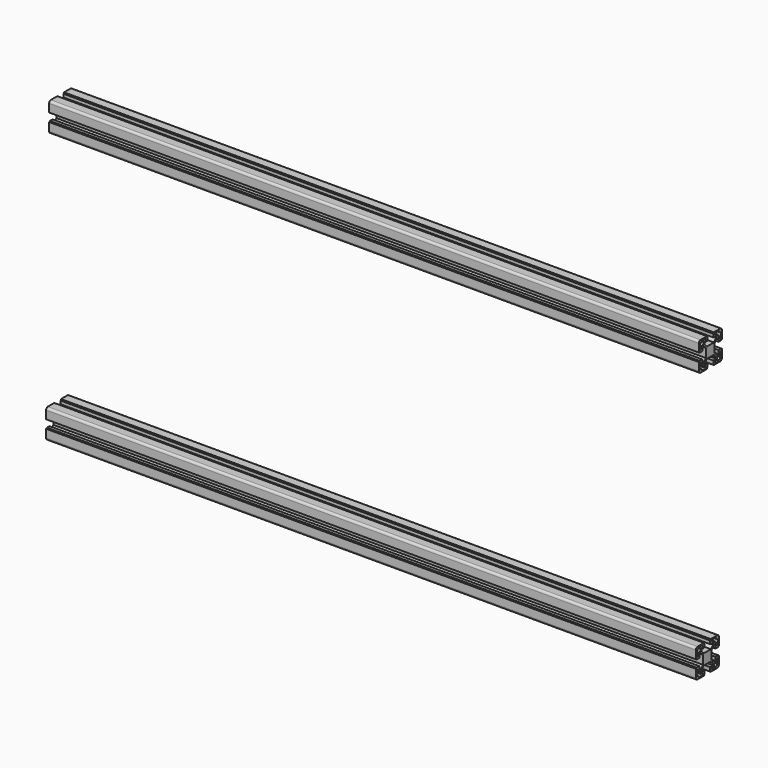
from build123d import *

# Parameters (mm, degrees)
F1_DEPTH = 900


with BuildPart() as f1:
    # F0 (on Right) → F1 (new body)
    with BuildSketch(Plane.YZ):
        with BuildLine():
            Line((5, -18.5), (5.8, -18.5))
            Line((5.8, -18.5), (5.8, -20))
            Line((5.8, -20), (17, -20))
            ThreePointArc((17, -20), (19.12132, -19.12132), (20, -17))
            Line((20, -17), (20, -5.8))
            Line((20, -5.8), (18.5, -5.8))
            Line((18.5, -5.8), (18.5, -5))
            Line((18.5, -5), (14, -5))
            Line((14, -5), (14, -10.05))
            Line((14, -10.05), (11.46421, -10.05))
            Line((11.46421, -10.05), (7.5, -6.08579))
            Line((7.5, -6.08579), (7.5, 6.08579))
            Line((7.5, 6.08579), (11.46421, 10.05))
            Line((11.46421, 10.05), (14, 10.05))
            Line((14, 10.05), (14, 5))
            Line((14, 5), (18.5, 5))
            Line((18.5, 5), (18.5, 5.8))
            Line((18.5, 5.8), (20, 5.8))
            Line((20, 5.8), (20, 17))
            ThreePointArc((20, 17), (19.12132, 19.12132), (17, 20))
            Line((17, 20), (5.8, 20))
            Line((5.8, 20), (5.8, 18.5))
            Line((5.8, 18.5), (5, 18.5))
            Line((5, 18.5), (5, 14))
            Line((5, 14), (10.05, 14))
            Line((10.05, 14), (10.05, 11.46421))
            Line((10.05, 11.46421), (6.08579, 7.5))
            Line((6.08579, 7.5), (-6.08579, 7.5))
            Line((-6.08579, 7.5), (-10.05, 11.46421))
            Line((-10.05, 11.46421), (-10.05, 14))
            Line((-10.05, 14), (-5, 14))
            Line((-5, 14), (-5, 18.5))
            Line((-5, 18.5), (-5.8, 18.5))
            Line((-5.8, 18.5), (-5.8, 20))
            Line((-5.8, 20), (-17, 20))
            ThreePointArc((-17, 20), (-19.12132, 19.12132), (-20, 17))
            Line((-20, 17), (-20, 5.8))
            Line((-20, 5.8), (-18.5, 5.8))
            Line((-18.5, 5.8), (-18.5, 5))
            Line((-18.5, 5), (-14, 5))
            Line((-14, 5), (-14, 10.05))
            Line((-14, 10.05), (-11.46421, 10.05))
            Line((-11.46421, 10.05), (-7.5, 6.08579))
            Line((-7.5, 6.08579), (-7.5, -6.08579))
            Line((-7.5, -6.08579), (-11.46421, -10.05))
            Line((-11.46421, -10.05), (-14, -10.05))
            Line((-14, -10.05), (-14, -5))
            Line((-14, -5), (-18.5, -5))
            Line((-18.5, -5), (-18.5, -5.8))
            Line((-18.5, -5.8), (-20, -5.8))
            Line((-20, -5.8), (-20, -17))
            ThreePointArc((-20, -17), (-19.12132, -19.12132), (-17, -20))
            Line((-17, -20), (-5.8, -20))
            Line((-5.8, -20), (-5.8, -18.5))
            Line((-5.8, -18.5), (-5, -18.5))
            Line((-5, -18.5), (-5, -14))
            Line((-5, -14), (-10.05, -14))
            Line((-10.05, -14), (-10.05, -11.46421))
            Line((-10.05, -11.46421), (-6.08579, -7.5))
            Line((-6.08579, -7.5), (6.08579, -7.5))
            Line((6.08579, -7.5), (10.05, -11.46421))
            Line((10.05, -11.46421), (10.05, -14))
            Line((10.05, -14), (5, -14))
            Line((5, -14), (5, -18.5))
        make_face()
        with BuildLine():
            Line((-18.5, -14.5), (-18.5, -9.5))
            ThreePointArc((-18.5, -9.5), (-17, -8), (-15.5, -9.5))
            Line((-15.5, -9.5), (-15.5, -11.75))
            Line((-15.5, -11.75), (-14.5, -11.75))
            ThreePointArc((-14.5, -11.75), (-12.555456, -12.555456), (-11.75, -14.5))
            Line((-11.75, -14.5), (-11.75, -15.5))
            Line((-11.75, -15.5), (-9.5, -15.5))
            ThreePointArc((-9.5, -15.5), (-8, -17), (-9.5, -18.5))
            Line((-9.5, -18.5), (-14.5, -18.5))
            Line((-14.5, -18.5), (-14.5, -17.25))
            ThreePointArc((-14.5, -17.25), (-16.444544, -16.444544), (-17.25, -14.5))
            Line((-17.25, -14.5), (-18.5, -14.5))
        make_face(mode=Mode.SUBTRACT)
        with BuildLine():
            Line((-11.75, 15.5), (-11.75, 14.5))
            ThreePointArc((-11.75, 14.5), (-12.555456, 12.555456), (-14.5, 11.75))
            Line((-14.5, 11.75), (-15.5, 11.75))
            Line((-15.5, 11.75), (-15.5, 9.5))
            ThreePointArc((-15.5, 9.5), (-17, 8), (-18.5, 9.5))
            Line((-18.5, 9.5), (-18.5, 14.5))
            Line((-18.5, 14.5), (-17.25, 14.5))
            ThreePointArc((-17.25, 14.5), (-16.444544, 16.444544), (-14.5, 17.25))
            Line((-14.5, 17.25), (-14.5, 18.5))
            Line((-14.5, 18.5), (-9.5, 18.5))
            ThreePointArc((-9.5, 18.5), (-8, 17), (-9.5, 15.5))
            Line((-9.5, 15.5), (-11.75, 15.5))
        make_face(mode=Mode.SUBTRACT)
        with BuildLine():
            Line((11.75, -15.5), (11.75, -14.5))
            ThreePointArc((11.75, -14.5), (12.555456, -12.555456), (14.5, -11.75))
            Line((14.5, -11.75), (15.5, -11.75))
            Line((15.5, -11.75), (15.5, -9.5))
            ThreePointArc((15.5, -9.5), (17, -8), (18.5, -9.5))
            Line((18.5, -9.5), (18.5, -14.5))
            Line((18.5, -14.5), (17.25, -14.5))
            ThreePointArc((17.25, -14.5), (16.444544, -16.444544), (14.5, -17.25))
            Line((14.5, -17.25), (14.5, -18.5))
            Line((14.5, -18.5), (9.5, -18.5))
            ThreePointArc((9.5, -18.5), (8, -17), (9.5, -15.5))
            Line((9.5, -15.5), (11.75, -15.5))
        make_face(mode=Mode.SUBTRACT)
        with BuildLine():
            Line((18.5, 14.5), (18.5, 9.5))
            ThreePointArc((18.5, 9.5), (17, 8), (15.5, 9.5))
            Line((15.5, 9.5), (15.5, 11.75))
            Line((15.5, 11.75), (14.5, 11.75))
            ThreePointArc((14.5, 11.75), (12.555456, 12.555456), (11.75, 14.5))
            Line((11.75, 14.5), (11.75, 15.5))
            Line((11.75, 15.5), (9.5, 15.5))
            ThreePointArc((9.5, 15.5), (8, 17), (9.5, 18.5))
            Line((9.5, 18.5), (14.5, 18.5))
            Line((14.5, 18.5), (14.5, 17.25))
            ThreePointArc((14.5, 17.25), (16.444544, 16.444544), (17.25, 14.5))
            Line((17.25, 14.5), (18.5, 14.5))
        make_face(mode=Mode.SUBTRACT)
        with BuildLine():
            Line((10.25, 353.438516), (11.05, 353.438516))
            Line((11.05, 353.438516), (11.05, 351.938516))
            Line((11.05, 351.938516), (22.25, 351.938516))
            ThreePointArc((22.25, 351.938516), (24.371321, 352.817196), (25.25, 354.938516))
            Line((25.25, 354.938516), (25.25, 366.138516))
            Line((25.25, 366.138516), (23.75, 366.138516))
            Line((23.75, 366.138516), (23.75, 366.938516))
            Line((23.75, 366.938516), (19.25, 366.938516))
            Line((19.25, 366.938516), (19.25, 361.888516))
            Line((19.25, 361.888516), (16.71421, 361.888516))
            Line((16.71421, 361.888516), (12.75, 365.852726))
            Line((12.75, 365.852726), (12.75, 378.024306))
            Line((12.75, 378.024306), (16.71421, 381.988516))
            Line((16.71421, 381.988516), (19.25, 381.988516))
            Line((19.25, 381.988516), (19.25, 376.938516))
            Line((19.25, 376.938516), (23.75, 376.938516))
            Line((23.75, 376.938516), (23.75, 377.738516))
            Line((23.75, 377.738516), (25.25, 377.738516))
            Line((25.25, 377.738516), (25.25, 388.938516))
            ThreePointArc((25.25, 388.938516), (24.371321, 391.059836), (22.25, 391.938516))
            Line((22.25, 391.938516), (11.05, 391.938516))
            Line((11.05, 391.938516), (11.05, 390.438516))
            Line((11.05, 390.438516), (10.25, 390.438516))
            Line((10.25, 390.438516), (10.25, 385.938516))
            Line((10.25, 385.938516), (15.3, 385.938516))
            Line((15.3, 385.938516), (15.3, 383.402726))
            Line((15.3, 383.402726), (11.33579, 379.438516))
            Line((11.33579, 379.438516), (-0.83579, 379.438516))
            Line((-0.83579, 379.438516), (-4.8, 383.402726))
            Line((-4.8, 383.402726), (-4.8, 385.938516))
            Line((-4.8, 385.938516), (0.25, 385.938516))
            Line((0.25, 385.938516), (0.25, 390.438516))
            Line((0.25, 390.438516), (-0.55, 390.438516))
            Line((-0.55, 390.438516), (-0.55, 391.938516))
            Line((-0.55, 391.938516), (-11.75, 391.938516))
            ThreePointArc((-11.75, 391.938516), (-13.87132, 391.059836), (-14.75, 388.938516))
            Line((-14.75, 388.938516), (-14.75, 377.738516))
            Line((-14.75, 377.738516), (-13.25, 377.738516))
            Line((-13.25, 377.738516), (-13.25, 376.938516))
            Line((-13.25, 376.938516), (-8.75, 376.938516))
            Line((-8.75, 376.938516), (-8.75, 381.988516))
            Line((-8.75, 381.988516), (-6.21421, 381.988516))
            Line((-6.21421, 381.988516), (-2.25, 378.024306))
            Line((-2.25, 378.024306), (-2.25, 365.852726))
            Line((-2.25, 365.852726), (-6.21421, 361.888516))
            Line((-6.21421, 361.888516), (-8.75, 361.888516))
            Line((-8.75, 361.888516), (-8.75, 366.938516))
            Line((-8.75, 366.938516), (-13.25, 366.938516))
            Line((-13.25, 366.938516), (-13.25, 366.138516))
            Line((-13.25, 366.138516), (-14.75, 366.138516))
            Line((-14.75, 366.138516), (-14.75, 354.938516))
            ThreePointArc((-14.75, 354.938516), (-13.87132, 352.817196), (-11.75, 351.938516))
            Line((-11.75, 351.938516), (-0.55, 351.938516))
            Line((-0.55, 351.938516), (-0.55, 353.438516))
            Line((-0.55, 353.438516), (0.25, 353.438516))
            Line((0.25, 353.438516), (0.25, 357.938516))
            Line((0.25, 357.938516), (-4.8, 357.938516))
            Line((-4.8, 357.938516), (-4.8, 360.474306))
            Line((-4.8, 360.474306), (-0.83579, 364.438516))
            Line((-0.83579, 364.438516), (11.33579, 364.438516))
            Line((11.33579, 364.438516), (15.3, 360.474306))
            Line((15.3, 360.474306), (15.3, 357.938516))
            Line((15.3, 357.938516), (10.25, 357.938516))
            Line((10.25, 357.938516), (10.25, 353.438516))
        make_face()
        with BuildLine():
            Line((-13.25, 357.438516), (-13.25, 362.438516))
            ThreePointArc((-13.25, 362.438516), (-11.75, 363.938516), (-10.25, 362.438516))
            Line((-10.25, 362.438516), (-10.25, 360.188516))
            Line((-10.25, 360.188516), (-9.25, 360.188516))
            ThreePointArc((-9.25, 360.188516), (-7.305456, 359.38306), (-6.5, 357.438516))
            Line((-6.5, 357.438516), (-6.5, 356.438516))
            Line((-6.5, 356.438516), (-4.25, 356.438516))
            ThreePointArc((-4.25, 356.438516), (-2.75, 354.938516), (-4.25, 353.438516))
            Line((-4.25, 353.438516), (-9.25, 353.438516))
            Line((-9.25, 353.438516), (-9.25, 354.688516))
            ThreePointArc((-9.25, 354.688516), (-11.194543, 355.493972), (-12, 357.438516))
            Line((-12, 357.438516), (-13.25, 357.438516))
        make_face(mode=Mode.SUBTRACT)
        with BuildLine():
            Line((-6.5, 387.438516), (-6.5, 386.438516))
            ThreePointArc((-6.5, 386.438516), (-7.305456, 384.493972), (-9.25, 383.688516))
            Line((-9.25, 383.688516), (-10.25, 383.688516))
            Line((-10.25, 383.688516), (-10.25, 381.438516))
            ThreePointArc((-10.25, 381.438516), (-11.75, 379.938516), (-13.25, 381.438516))
            Line((-13.25, 381.438516), (-13.25, 386.438516))
            Line((-13.25, 386.438516), (-12, 386.438516))
            ThreePointArc((-12, 386.438516), (-11.194543, 388.38306), (-9.25, 389.188516))
            Line((-9.25, 389.188516), (-9.25, 390.438516))
            Line((-9.25, 390.438516), (-4.25, 390.438516))
            ThreePointArc((-4.25, 390.438516), (-2.75, 388.938516), (-4.25, 387.438516))
            Line((-4.25, 387.438516), (-6.5, 387.438516))
        make_face(mode=Mode.SUBTRACT)
        with BuildLine():
            Line((17, 356.438516), (17, 357.438516))
            ThreePointArc((17, 357.438516), (17.805457, 359.38306), (19.75, 360.188516))
            Line((19.75, 360.188516), (20.75, 360.188516))
            Line((20.75, 360.188516), (20.75, 362.438516))
            ThreePointArc((20.75, 362.438516), (22.25, 363.938516), (23.75, 362.438516))
            Line((23.75, 362.438516), (23.75, 357.438516))
            Line((23.75, 357.438516), (22.5, 357.438516))
            ThreePointArc((22.5, 357.438516), (21.694544, 355.493972), (19.75, 354.688516))
            Line((19.75, 354.688516), (19.75, 353.438516))
            Line((19.75, 353.438516), (14.75, 353.438516))
            ThreePointArc((14.75, 353.438516), (13.25, 354.938516), (14.75, 356.438516))
            Line((14.75, 356.438516), (17, 356.438516))
        make_face(mode=Mode.SUBTRACT)
        with BuildLine():
            Line((23.75, 386.438516), (23.75, 381.438516))
            ThreePointArc((23.75, 381.438516), (22.25, 379.938516), (20.75, 381.438516))
            Line((20.75, 381.438516), (20.75, 383.688516))
            Line((20.75, 383.688516), (19.75, 383.688516))
            ThreePointArc((19.75, 383.688516), (17.805457, 384.493972), (17, 386.438516))
            Line((17, 386.438516), (17, 387.438516))
            Line((17, 387.438516), (14.75, 387.438516))
            ThreePointArc((14.75, 387.438516), (13.25, 388.938516), (14.75, 390.438516))
            Line((14.75, 390.438516), (19.75, 390.438516))
            Line((19.75, 390.438516), (19.75, 389.188516))
            ThreePointArc((19.75, 389.188516), (21.694544, 388.38306), (22.5, 386.438516))
            Line((22.5, 386.438516), (23.75, 386.438516))
        make_face(mode=Mode.SUBTRACT)
    extrude(amount=F1_DEPTH)


solid = f1.part
